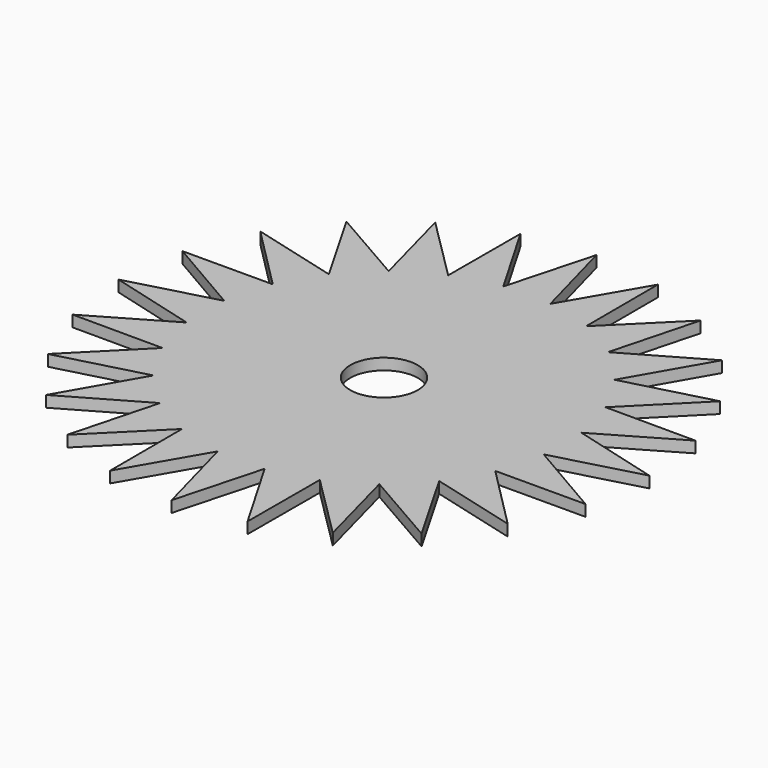
from build123d import *

# Parameters (mm, degrees)
F0_R     = 9.525
F1_DEPTH = 3.175


with BuildPart() as f1:
    # F0 (on Top) → F1 (new body)
    with BuildSketch(Plane.XY):
        Polygon((0, 74.884645), (-6.630731, 50.365399), (-19.381572, 72.333012), (-19.440318, 46.93308), (-37.442322, 64.852005), (-30.925081, 40.30235), (-52.95144, 52.95144), (-40.30235, 30.925081), (-64.852005, 37.442322), (-46.93308, 19.440318), (-72.333012, 19.381572), (-50.365399, 6.630731), (-74.884645, 0), (-50.365399, -6.630731), (-72.333012, -19.381572), (-46.93308, -19.440318), (-64.852005, -37.442322), (-40.30235, -30.925081), (-52.95144, -52.95144), (-30.925081, -40.30235), (-37.442322, -64.852005), (-19.440318, -46.93308), (-19.381572, -72.333012), (-6.630731, -50.365399), (0, -74.884645), (6.630731, -50.365399), (19.381572, -72.333012), (19.440318, -46.93308), (37.442322, -64.852005), (30.925081, -40.30235), (52.95144, -52.95144), (40.30235, -30.925081), (64.852005, -37.442322), (46.93308, -19.440318), (72.333012, -19.381572), (50.365399, -6.630731), (74.884645, 0), (50.365399, 6.630731), (72.333012, 19.381572), (46.93308, 19.440318), (64.852005, 37.442322), (40.30235, 30.925081), (52.95144, 52.95144), (30.925081, 40.30235), (37.442322, 64.852005), (19.440318, 46.93308), (19.381572, 72.333012), (6.630731, 50.365399), align=None)
        Circle(F0_R, mode=Mode.SUBTRACT)
    extrude(amount=F1_DEPTH)


solid = f1.part
